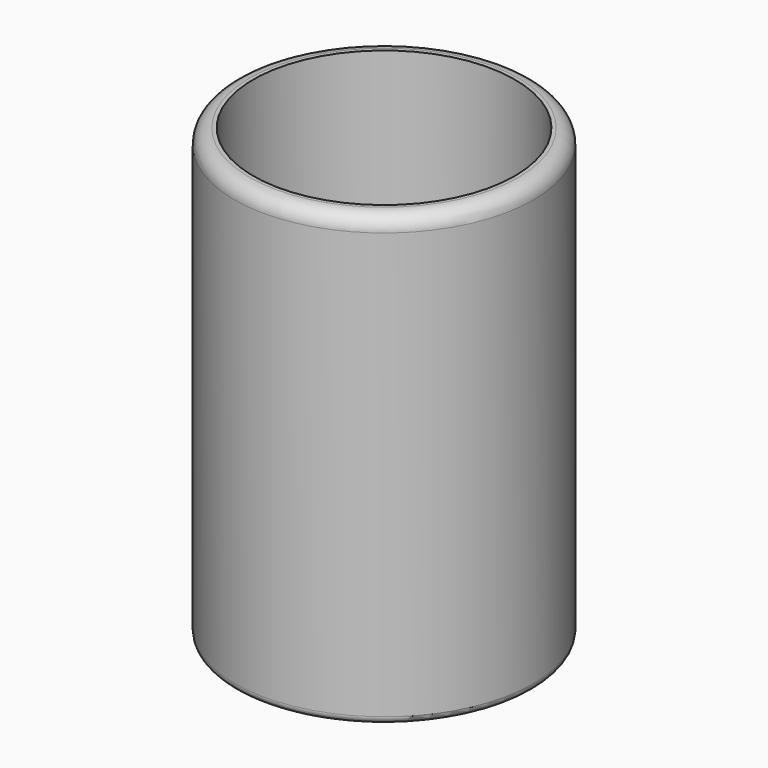
from build123d import *

# Parameters (mm, degrees)
F0_R     = 25.4
F1_DEPTH = 76.2
F2_R     = 22.225
F3_DEPTH = 69.85
F4_R     = 5.08
F5_R     = 2.54
F6_R     = 1.27


with BuildPart() as f1:
    # F0 (on Top) → F1 (new body)
    with BuildSketch(Plane.XY):
        Circle(F0_R)
    extrude(amount=F1_DEPTH)

    # F2 (on face) → F3 (cut)
    with BuildSketch(Plane.XY.offset(76.2)):
        Circle(F2_R)
    extrude(amount=-F3_DEPTH, mode=Mode.SUBTRACT)

    # F4
    f4_edges = [f1.edges().sort_by_distance(p)[0] for p in [
        (-22.225, 0, 6.35),
    ]]
    fillet(f4_edges, radius=F4_R)

    # F5
    f5_edges = [f1.edges().sort_by_distance(p)[0] for p in [
        (-25.4, 0, 76.2),
    ]]
    fillet(f5_edges, radius=F5_R)

    # F6
    f6_edges = [f1.edges().sort_by_distance(p)[0] for p in [
        (-25.4, 0, 0),
    ]]
    fillet(f6_edges, radius=F6_R)


solid = f1.part
